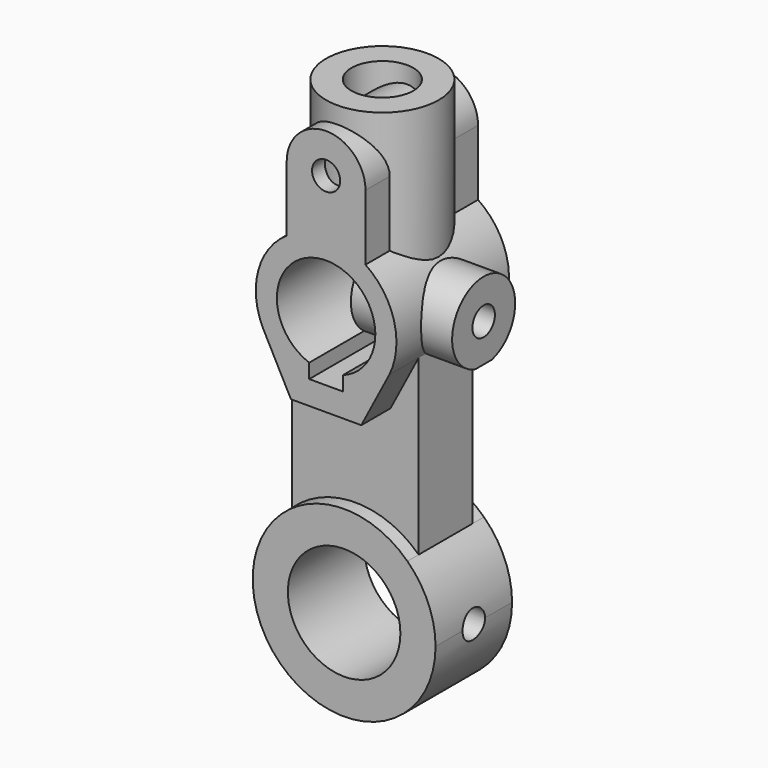
from build123d import *

# Parameters (mm, degrees)
F4_R      = 20
F4_R_2    = 11
F5_DEPTH  = 50
F0_R      = 5
F6_DEPTH  = 25
F0_R_2    = 20
F7_DEPTH  = 17
F1_R      = 5
F8_DEPTH  = 100
F9_DEPTH  = 12
F10_DEPTH = 36


with BuildPart() as f5:
    # F4 (on offset) → F5 (new body)
    with BuildSketch(Plane.XY.offset(160)):
        Circle(F4_R)
        Circle(F4_R_2, mode=Mode.SUBTRACT)
    extrude(amount=-F5_DEPTH)


with BuildPart() as f6:
    # F0 (on Front) → F6 (new body, symmetric)
    with BuildSketch(Plane.XZ):
        with BuildLine():
            Line((12.5, 66), (22.5, 85.102753))
            ThreePointArc((22.5, 85.102753), (24.142361, 102.492025), (14, 116.712315))
            Line((14, 116.712315), (14, 140))
            ThreePointArc((14, 140), (0, 154), (-14, 140))
            Line((-14, 140), (-14, 116.712315))
            ThreePointArc((-14, 116.712315), (-24.142361, 102.492025), (-22.5, 85.102753))
            Line((-22.5, 85.102753), (-12.5, 66))
            Line((-12.5, 66), (0, 66))
            Line((0, 66), (12.5, 66))
        make_face()
        with BuildLine():
            ThreePointArc((-6, 79.560718), (0, 113.5), (6, 79.560718))
            Line((6, 79.560718), (6, 74.418526))
            Line((6, 74.418526), (-6, 74.418526))
            Line((-6, 74.418526), (-6, 79.560718))
        make_face(mode=Mode.SUBTRACT)
        with Locations((0, 140)):
            Circle(F0_R, mode=Mode.SUBTRACT)
    extrude(amount=F6_DEPTH, both=True)



with BuildPart() as f7:
    # F0 (on Front) → F7 (new body, symmetric)
    with BuildSketch(Plane.XZ):
        with BuildLine():
            ThreePointArc((-22.5, 23.452079), (-12.747549, -29.895652), (32.5, 0))
            ThreePointArc((32.5, 0), (29.895652, 12.747549), (22.5, 23.452079))
            ThreePointArc((22.5, 23.452079), (0, 32.5), (-22.5, 23.452079))
        make_face()
        Circle(F0_R_2, mode=Mode.SUBTRACT)
    extrude(amount=F7_DEPTH, both=True)

    # F1 (on Right) → F8 (cut)
    with BuildSketch(Plane.YZ):
        Circle(F1_R)
    extrude(amount=F8_DEPTH, mode=Mode.SUBTRACT)


with BuildPart() as f6_1:
    add(f6.part)

    add(f7.part)  # F9 merges F7
    # F0 (on Front) → F9 (join, symmetric)
    with BuildSketch(Plane.XZ):
        with BuildLine():
            ThreePointArc((-22.5, 23.452079), (0, 32.5), (22.5, 23.452079))
            Line((22.5, 23.452079), (22.5, 85.102753))
            Line((22.5, 85.102753), (12.5, 66))
            Line((12.5, 66), (0, 66))
            Line((0, 66), (-12.5, 66))
            Line((-12.5, 66), (-22.5, 85.102753))
            Line((-22.5, 85.102753), (-22.5, 23.452079))
        make_face()
    extrude(amount=F9_DEPTH, both=True)


with BuildPart() as f10:
    # F1 (on Right) → F10 (new body)
    with BuildSketch(Plane.YZ):
        with BuildLine():
            ThreePointArc((3.641003, 82.481749), (11.112471, 87.484545), (14, 96))
            ThreePointArc((14, 96), (-8.515455, 107.112471), (-3.641003, 82.481749))
            Line((-3.641003, 82.481749), (3.641003, 82.481749))
        make_face()
        with Locations((0, 96)):
            Circle(F1_R, mode=Mode.SUBTRACT)
    extrude(amount=F10_DEPTH)


solid = Compound([f5.part, f6_1.part, f10.part])
